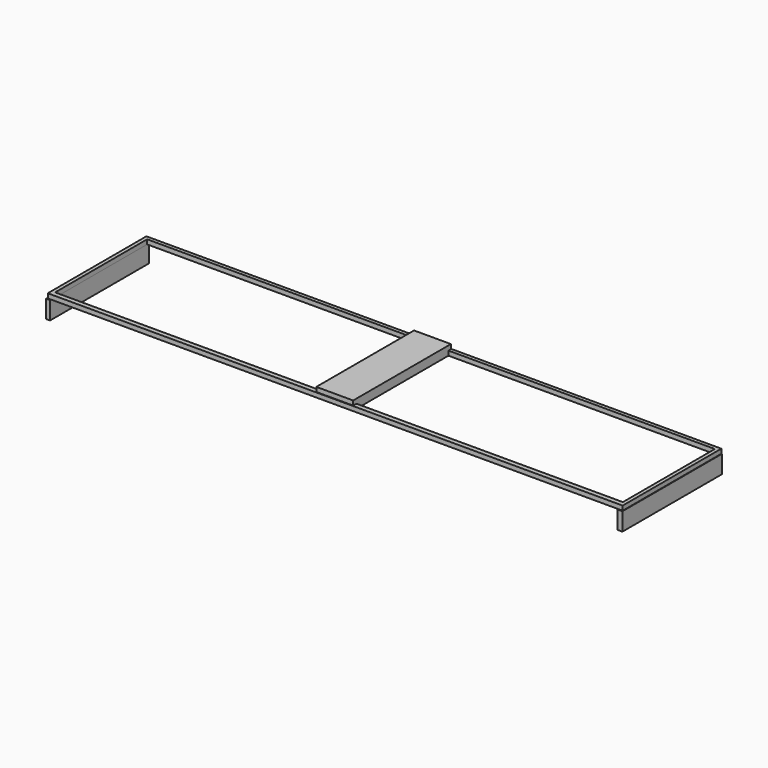
from build123d import *

# Parameters (mm, degrees)
F0_W     = 20
F0_H     = 640
F1_DEPTH = 25
F2_W     = 205.079407
F2_H     = 680
F3_DEPTH = 50
F4_W     = 21.944835
F4_H     = 690.043539
F4_W_2   = 26.821375
F4_H_2   = 692.481876
F5_DEPTH = 100
F6_DEPTH = 100


with BuildPart() as f1:
    # F0 (on Top) → F1 (new body)
    with BuildSketch(Plane.XY):
        Polygon((3028.928354, -35.538424), (-171.071646, -35.538424), (-171.071646, -55.538424), (-151.071646, -55.538424), (3008.928354, -55.538424), (3028.928354, -55.538424), align=None)
        with Locations((-161.071646, -375.538424)):
            Rectangle(F0_W, F0_H)
        with Locations((3018.928354, -375.538424)):
            Rectangle(F0_W, F0_H)
        Polygon((-151.071646, -695.538424), (-171.071646, -695.538424), (-171.071646, -721.908212), (3028.928354, -721.908212), (3028.928354, -695.538424), (3008.928354, -695.538424), align=None)
    extrude(amount=F1_DEPTH)

    # F2 (on Top) → F3 (join)
    with BuildSketch(Plane.XY):
        with Locations((1423.525035, -378.410397)):
            Rectangle(F2_W, F2_H)
    extrude(amount=F3_DEPTH)

    # F4 (on Top) → F5 (join)
    with BuildSketch(Plane.XY):
        with Locations((-163.901783, -383.802428)):
            Rectangle(F4_W, F4_H)
        with Locations((3018.101096, -380.761802)):
            Rectangle(F4_W_2, F4_H_2)
    extrude(amount=-F5_DEPTH)

    # F4 (on Top) → F6 (join)
    with BuildSketch(Plane.XY):
        with Locations((-163.901783, -383.802428)):
            Rectangle(F4_W, F4_H)
        with Locations((3018.101096, -380.761802)):
            Rectangle(F4_W_2, F4_H_2)
    extrude(amount=-F6_DEPTH)


solid = f1.part
